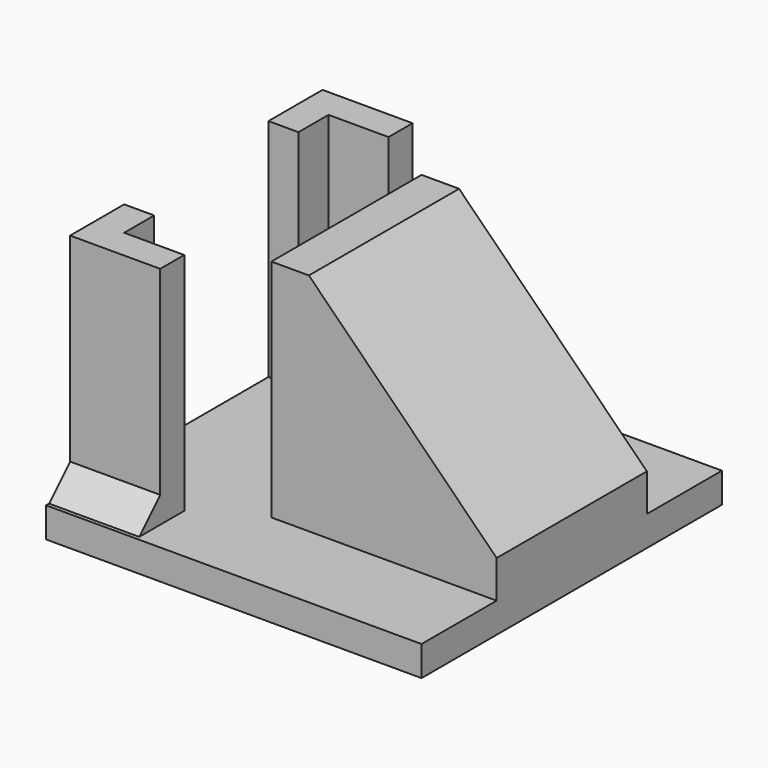
from build123d import *

# Parameters (mm, degrees)
SKETCH_W        = 10
SKETCH_H        = 10
PAD_DEPTH       = 0.8
SKETCH001_W     = 6
SKETCH001_H     = 5
PAD001_DEPTH    = 6
CHAMFER_SIZE    = 5
CHAMFER001_SIZE = 0.7


with BuildPart() as part:
    # Sketch → Pad (new body)
    with BuildSketch(Plane.XY):
        with Locations((5, 5)):
            Rectangle(SKETCH_W, SKETCH_H)
    extrude(amount=PAD_DEPTH)

    # Sketch001 (on Face6 of Pad) → Pad001 (join)
    with BuildSketch(Plane.XY.offset(0.8)):
        with Locations((7, 5)):
            Rectangle(SKETCH001_W, SKETCH001_H)
        Polygon((0, 0.8), (0, 2.6), (0.8, 2.6), (0.8, 1.6), (2.4, 1.6), (2.4, 0.8), align=None)
        Polygon((0, 7.403696), (0, 9.203696), (2.399997, 9.2), (2.399997, 8.4), (0.8, 8.402464), (0.8, 7.402464), align=None)
    extrude(amount=PAD001_DEPTH)

    # Chamfer
    chamfer_edges = [part.edges().sort_by_distance(p)[0] for p in [
        (10, 5, 6.8),
    ]]
    chamfer(chamfer_edges, length=CHAMFER_SIZE)

    # Chamfer001
    chamfer001_edges = [part.edges().sort_by_distance(p)[0] for p in [
        (1.2, 0.8, 0.8),
        (1.199999, 9.201848, 0.8),
    ]]
    chamfer(chamfer001_edges, length=CHAMFER001_SIZE)


solid = part.part
